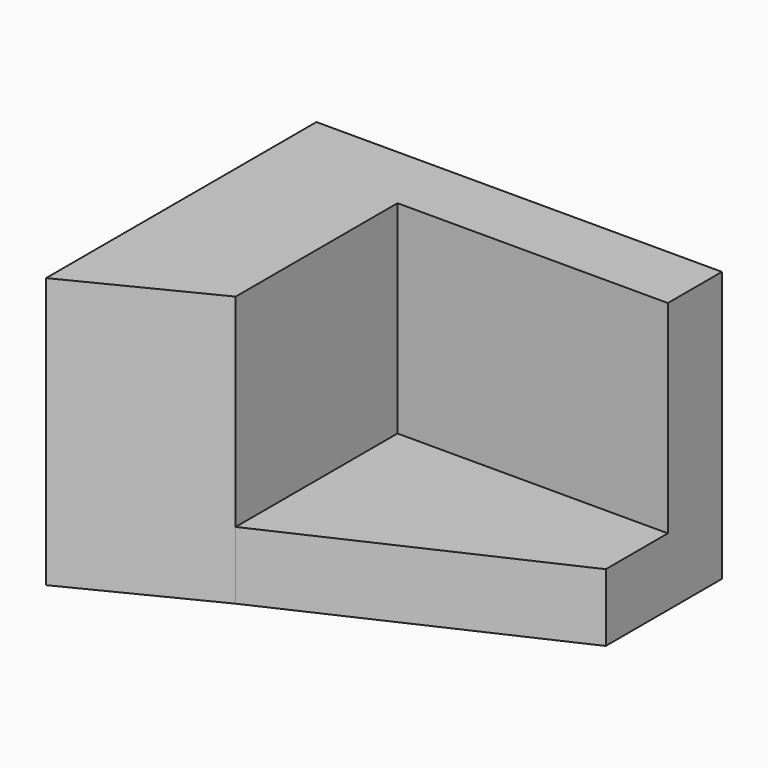
from build123d import *

# Parameters (mm, degrees)
F0_W     = 50.8
F0_H     = 12.7
F1_DEPTH = 50.8
F3_DEPTH = 12.7


with BuildPart() as f1:
    # F0 (on Top) → F1 (new body)
    with BuildSketch(Plane.XY):
        Polygon((0, 63.5), (0, 0), (25.4, 12.775149), (25.4, 50.8), (25.4, 63.5), align=None)
        with Locations((50.8, 57.15)):
            Rectangle(F0_W, F0_H)
    extrude(amount=F1_DEPTH)

    # F2 (on face) → F3 (join)
    with BuildSketch(Plane(origin=(0, 0, 0), x_dir=(1, 0, 0), z_dir=(0, 0, -1))):
        Polygon((76.2, -36.213059), (25.4, -12.775149), (25.4, -50.8), (76.2, -50.8), align=None)
    extrude(amount=-F3_DEPTH)


solid = f1.part
